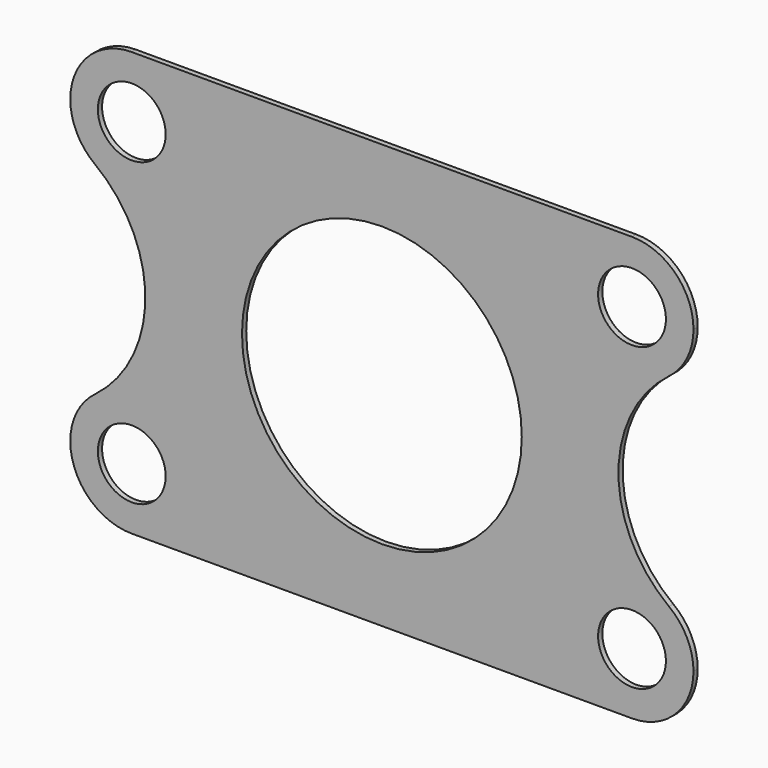
from build123d import *

# Parameters (mm, degrees)
F0_R     = 5.08
F0_R_2   = 20.955
F1_DEPTH = 0.79375


with BuildPart() as f1:
    # F0 (on Front) → F1 (new body)
    with BuildSketch(Plane.XZ):
        with BuildLine():
            Line((37.465, 31.75), (-37.465, 31.75))
            ThreePointArc((-37.465, 31.75), (-43.975686, 29.053186), (-46.6725, 22.5425))
            ThreePointArc((-46.6725, 22.5425), (-45.705075, 18.434068), (-43.006095, 15.188975))
            ThreePointArc((-43.006095, 15.188975), (-35.433, 0), (-43.006095, -15.188975))
            ThreePointArc((-43.006095, -15.188975), (-45.705075, -18.434068), (-46.6725, -22.5425))
            ThreePointArc((-46.6725, -22.5425), (-43.975686, -29.053186), (-37.465, -31.75))
            Line((-37.465, -31.75), (37.465, -31.75))
            ThreePointArc((37.465, -31.75), (43.975686, -29.053186), (46.6725, -22.5425))
            ThreePointArc((46.6725, -22.5425), (45.705075, -18.434068), (43.006095, -15.188975))
            ThreePointArc((43.006095, -15.188975), (35.433, 0), (43.006095, 15.188975))
            ThreePointArc((43.006095, 15.188975), (45.705075, 18.434068), (46.6725, 22.5425))
            ThreePointArc((46.6725, 22.5425), (43.975686, 29.053186), (37.465, 31.75))
        make_face()
        with Locations((-37.465, -22.5425)):
            Circle(F0_R, mode=Mode.SUBTRACT)
        with Locations((37.465, -22.5425)):
            Circle(F0_R, mode=Mode.SUBTRACT)
        Circle(F0_R_2, mode=Mode.SUBTRACT)
        with Locations((-37.465, 22.5425)):
            Circle(F0_R, mode=Mode.SUBTRACT)
        with Locations((37.465, 22.5425)):
            Circle(F0_R, mode=Mode.SUBTRACT)
    extrude(amount=F1_DEPTH)


solid = f1.part
